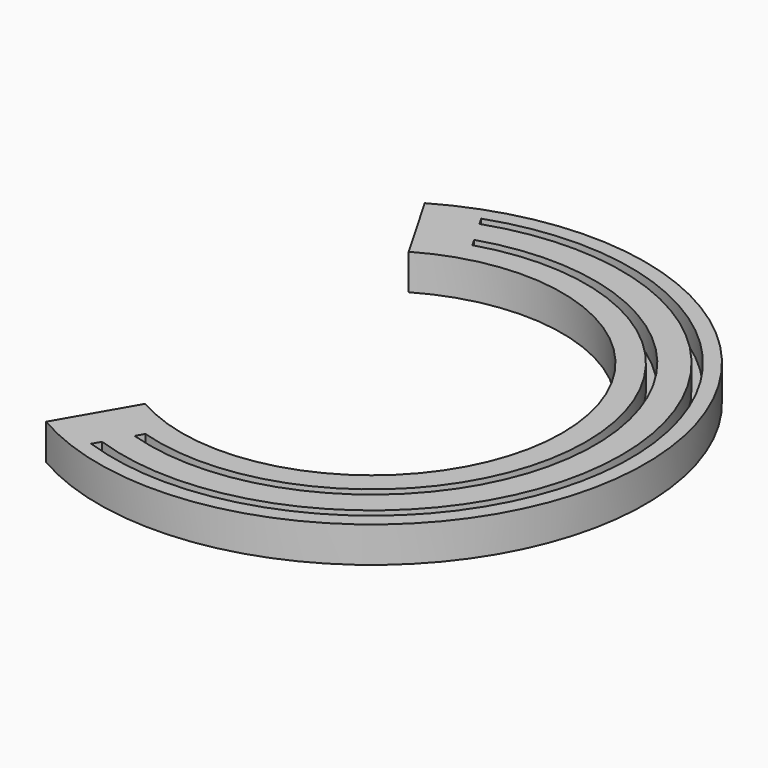
from build123d import *

# Parameters (mm, degrees)
F1_DEPTH = 38.1
F3_DEPTH = 25.4


with BuildPart() as f1:
    # F0 (on Top) → F1 (new body)
    with BuildSketch(Plane.XY):
        with BuildLine():
            ThreePointArc((-101.6, 175.976362), (203.2, 0), (-101.6, -175.976362))
            Line((-101.6, -175.976362), (-146.05, -252.96602))
            ThreePointArc((-146.05, -252.96602), (292.1, 0), (-146.05, 252.96602))
            Line((-146.05, 252.96602), (-101.6, 175.976362))
        make_face()
    extrude(amount=F1_DEPTH)

    # F2 (on face) → F3 (cut)
    with BuildSketch(Plane.XY.offset(38.1)):
        with BuildLine():
            ThreePointArc((-67.447957, 218.423289), (228.6, 0), (-67.447957, -218.423289))
            Line((-67.447957, -218.423289), (-72.327528, -226.874953))
            ThreePointArc((-72.327528, -226.874953), (238.125, 0), (-72.327528, 226.874953))
            Line((-72.327528, 226.874953), (-67.447957, 218.423289))
        make_face()
        with BuildLine():
            ThreePointArc((-86.914513, 252.140353), (266.7, 0), (-86.914513, -252.140353))
            Line((-86.914513, -252.140353), (-91.762687, -260.537636))
            ThreePointArc((-91.762687, -260.537636), (276.225, 0), (-91.762687, 260.537636))
            Line((-91.762687, 260.537636), (-86.914513, 252.140353))
        make_face()
    extrude(amount=-F3_DEPTH, mode=Mode.SUBTRACT)


solid = f1.part
